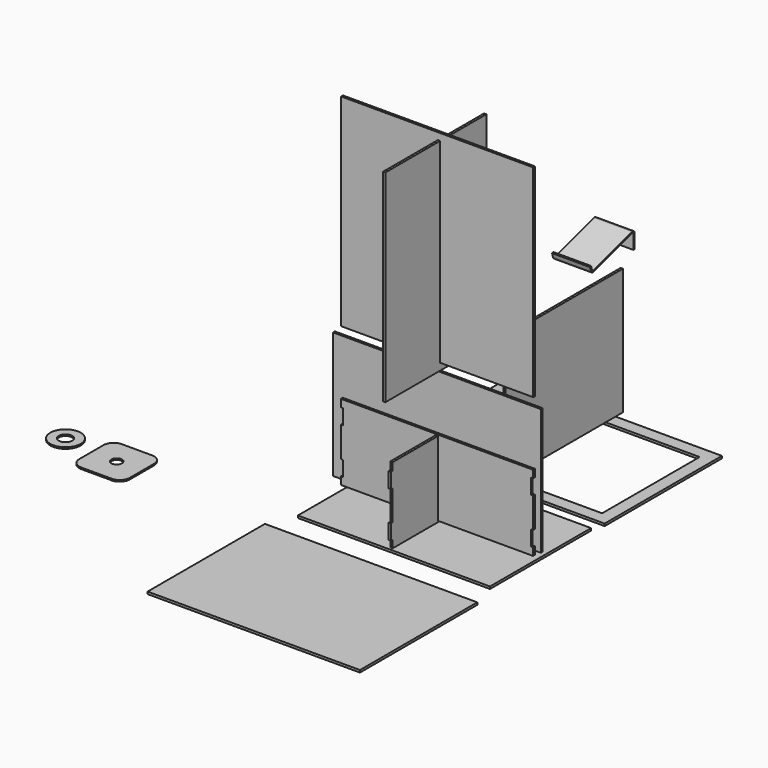
from build123d import *

# Parameters (mm, degrees)
F0_W      = 380
F0_H      = 250
F1_DEPTH  = 4.5
F3_DEPTH  = 4.5
F5_DEPTH  = 4.5
F6_W      = 420
F6_H      = 290
F6_W_2    = 371
F6_H_2    = 241
F7_DEPTH  = 4.5
F8_W      = 290
F8_H      = 250
F9_DEPTH  = 4.5
F10_W     = 411
F10_H     = 250
F11_DEPTH = 4.5
F12_W     = 420
F12_H     = 290
F13_DEPTH = 4.5
F14_W     = 380
F14_H     = 400
F15_DEPTH = 4.5
F16_W     = 250
F16_H     = 400
F17_DEPTH = 4.5
F19_DEPTH = 75
F20_R     = 10.5
F21_DEPTH = 3
F22_R     = 30
F22_R_2   = 13.25
F23_DEPTH = 3


with BuildPart() as f1:
    # F0 (on Top) → F1 (new body)
    with BuildSketch(Plane.XY):
        with Locations((4.120028, 12.352592)):
            Rectangle(F0_W, F0_H)
    extrude(amount=F1_DEPTH)


with BuildPart() as f3:
    # F2 (on Front) → F3 (new body)
    with BuildSketch(Plane.XZ):
        Polygon((-187.26966, 28.243211), (-187.26966, 13.243211), (192.73034, 13.243211), (192.73034, 28.243211), (188.23034, 28.243211), (188.23034, 58.243211), (192.73034, 58.243211), (192.73034, 118.243211), (188.23034, 118.243211), (188.23034, 148.243211), (192.73034, 148.243211), (192.73034, 163.243211), (-187.26966, 163.243211), (-187.26966, 148.243211), (-182.76966, 148.243211), (-182.76966, 118.243211), (-187.26966, 118.243211), (-187.26966, 58.243211), (-182.76966, 58.243211), (-182.76966, 28.243211), align=None)
    extrude(amount=F3_DEPTH)


with BuildPart() as f5:
    # F4 (on Right) → F5 (new body)
    with BuildSketch(Plane.YZ):
        Polygon((-116.194034, 25.642902), (-116.194034, 10.642902), (124.805966, 10.642902), (124.805966, 25.642902), (129.305966, 25.642902), (129.305966, 55.642902), (124.805966, 55.642902), (124.805966, 115.642902), (129.305966, 115.642902), (129.305966, 145.642902), (124.805966, 145.642902), (124.805966, 160.642902), (-116.194034, 160.642902), (-116.194034, 145.642902), (-120.694034, 145.642902), (-120.694034, 115.642902), (-116.194034, 115.642902), (-116.194034, 55.642902), (-120.694034, 55.642902), (-120.694034, 25.642902), align=None)
    extrude(amount=F5_DEPTH)


with BuildPart() as f7:
    # F6 (on face) → F7 (new body)
    with BuildSketch(Plane.XY.offset(4.5)):
        with Locations((-3.628729, 300.398995)):
            Rectangle(F6_W, F6_H)
        with Locations((-3.628729, 300.398995)):
            Rectangle(F6_W_2, F6_H_2, mode=Mode.SUBTRACT)
    extrude(amount=F7_DEPTH)


with BuildPart() as f9:
    # F8 (on face) → F9 (new body)
    with BuildSketch(Plane.YZ.offset(4.5)):
        with Locations((302.186757, 144.815955)):
            Rectangle(F8_W, F8_H)
    extrude(amount=F9_DEPTH)


with BuildPart() as f11:
    # F10 (on face) → F11 (new body)
    with BuildSketch(Plane(origin=(0, 0, 0), x_dir=(-1, 0, 0), z_dir=(0, 1, 0))):
        with Locations((0.854113, 145.743211)):
            Rectangle(F10_W, F10_H)
    extrude(amount=F11_DEPTH)


with BuildPart() as f13:
    # F12 (on face) → F13 (new body)
    with BuildSketch(Plane.XY.offset(4.5)):
        with Locations((7.312002, -318.108499)):
            Rectangle(F12_W, F12_H)
    extrude(amount=F13_DEPTH)


with BuildPart() as f15:
    # F14 (on face) → F15 (new body)
    with BuildSketch(Plane.XZ):
        with Locations((3.093459, 489.766611)):
            Rectangle(F14_W, F14_H)
    extrude(amount=F15_DEPTH)


with BuildPart() as f17:
    # F16 (on face) → F17 (new body)
    with BuildSketch(Plane.YZ.offset(4.5)):
        with Locations((-15.058979, 476.066232)):
            Rectangle(F16_W, F16_H)
    extrude(amount=F17_DEPTH)


with BuildPart() as f19:
    # F18 (on face) → F19 (new body)
    with BuildSketch(Plane.YZ.offset(9)):
        with BuildLine():
            Line((379.206729, 354.758554), (382.206729, 354.758554))
            Line((382.206729, 354.758554), (382.206729, 383.04303))
            ThreePointArc((382.206729, 383.04303), (380.192705, 387.053509), (375.773151, 387.833109))
            Line((375.773151, 387.833109), (279.971575, 359.161554))
            ThreePointArc((279.971575, 359.161554), (278.448782, 359.317269), (277.482112, 360.504154))
            Line((277.482112, 360.504154), (274.891274, 369.16104))
            Line((274.891274, 369.16104), (272.017227, 368.300893))
            Line((272.017227, 368.300893), (274.608065, 359.644007))
            ThreePointArc((274.608065, 359.644007), (277.024739, 356.676795), (280.831722, 356.287506))
            Line((280.831722, 356.287506), (376.633297, 384.959062))
            ThreePointArc((376.633297, 384.959062), (378.401119, 384.647222), (379.206729, 383.04303))
            Line((379.206729, 383.04303), (379.206729, 354.758554))
        make_face()
    extrude(amount=F19_DEPTH)


with BuildPart() as f21:
    # F20 (on face) → F21 (new body)
    with BuildSketch(Plane.XY.offset(9)):
        with BuildLine():
            Line((-538.301447, -207.481537), (-478.301447, -207.481537))
            ThreePointArc((-478.301447, -207.481537), (-464.159311, -201.623672), (-458.301447, -187.481537))
            Line((-458.301447, -187.481537), (-458.301447, -127.481537))
            ThreePointArc((-458.301447, -127.481537), (-464.159311, -113.339401), (-478.301447, -107.481537))
            Line((-478.301447, -107.481537), (-538.301447, -107.481537))
            ThreePointArc((-538.301447, -107.481537), (-552.443582, -113.339401), (-558.301447, -127.481537))
            Line((-558.301447, -127.481537), (-558.301447, -187.481537))
            ThreePointArc((-558.301447, -187.481537), (-552.443582, -201.623672), (-538.301447, -207.481537))
        make_face()
        with Locations((-508.301447, -157.481537)):
            Circle(F20_R, mode=Mode.SUBTRACT)
    extrude(amount=F21_DEPTH)


with BuildPart() as f23:
    # F22 (on face) → F23 (new body)
    with BuildSketch(Plane.XY.offset(12)):
        with Locations((-614.800632, -150.910914)):
            Circle(F22_R)
        with Locations((-614.800632, -150.910914)):
            Circle(F22_R_2, mode=Mode.SUBTRACT)
        with Locations((-614.800632, -150.910914)):
            Circle(F22_R)
        with Locations((-614.800632, -150.910914)):
            Circle(F22_R_2, mode=Mode.SUBTRACT)
    extrude(amount=F23_DEPTH)


solid = Compound([f1.part, f3.part, f5.part, f7.part, f9.part, f11.part, f13.part, f15.part, f17.part, f19.part, f21.part, f23.part])
